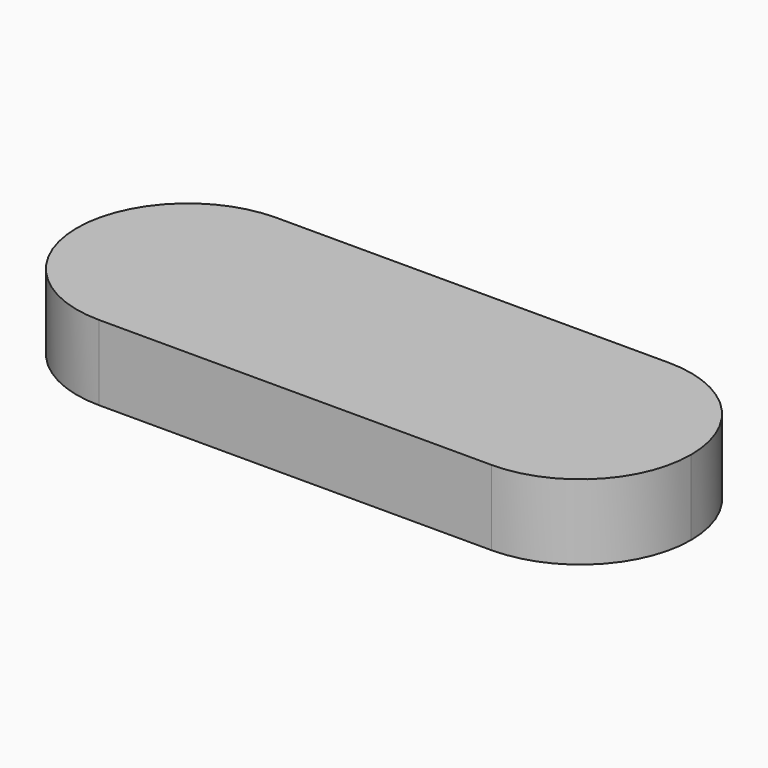
from build123d import *

# Parameters (mm, degrees)
F1_DEPTH = 25.4


with BuildPart() as f1:
    # F0 (on Top) → F1 (new body)
    with BuildSketch(Plane.XY):
        with BuildLine():
            ThreePointArc((0, -37.451895), (26.482489, -26.482489), (37.451895, 0))
            ThreePointArc((37.451895, 0), (26.482489, 26.482489), (0, 37.451895))
            ThreePointArc((0, 37.451895), (-37.451895, 0), (0, -37.451895))
        make_face()
        with BuildLine():
            ThreePointArc((0, 37.451895), (26.482489, 26.482489), (37.451895, 0))
            ThreePointArc((37.451895, 0), (26.482489, -26.482489), (0, -37.451895))
            Line((0, -37.451895), (66.374876, -37.451895))
            Line((66.374876, -37.451895), (66.374876, 37.451895))
            Line((66.374876, 37.451895), (0, 37.451895))
        make_face()
        with BuildLine():
            Line((132.749751, 37.451895), (66.374876, 37.451895))
            Line((66.374876, 37.451895), (66.374876, -37.451895))
            Line((66.374876, -37.451895), (132.749751, -37.451895))
            ThreePointArc((132.749751, -37.451895), (95.297856, 0), (132.749751, 37.451895))
        make_face()
        with BuildLine():
            ThreePointArc((170.201647, 0), (159.23224, 26.482489), (132.749751, 37.451895))
            ThreePointArc((132.749751, 37.451895), (95.297856, 0), (132.749751, -37.451895))
            ThreePointArc((132.749751, -37.451895), (159.23224, -26.482489), (170.201647, 0))
        make_face()
    extrude(amount=F1_DEPTH)


solid = f1.part
